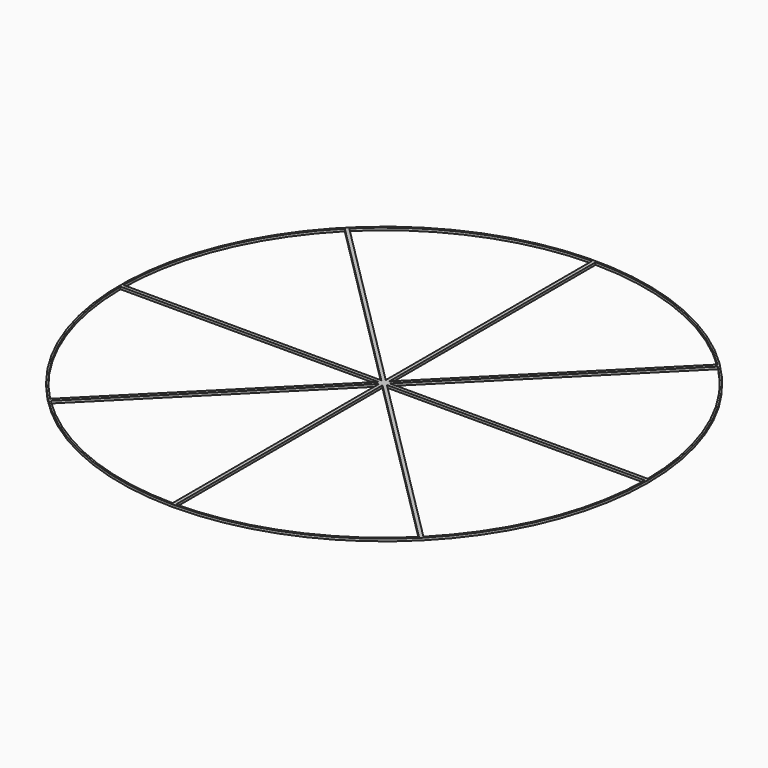
from build123d import *

# Parameters (mm, degrees)
F1_DEPTH = 0.2


with BuildPart() as f1:
    # F0 (on Top) → F1 (new body)
    with BuildSketch(Plane.XY):
        Polygon((-0.15, -0.0621320344), (-0.0621320344, -0.15), (0, -0.15), (0.0621320344, -0.15), (0.15, -0.0621320344), (0.15, 0), (0.15, 0.0621320344), (0.0621320344, 0.15), (0, 0.15), (-0.0621320344, 0.15), (-0.15, 0.0621320344), (-0.15, 0), align=None)
        Polygon((0, 0.2121320344), (-0.0621320344, 0.15), (0, 0.15), (0.0621320344, 0.15), align=None)
        Polygon((0.15, 0), (0.15, -0.0621320344), (0.2121320344, 0), (0.15, 0.0621320344), align=None)
        Polygon((0.0621320344, -0.15), (0.15, -0.15), (0.15, -0.0621320344), align=None)
        Polygon((0.0621320344, 0.15), (0.15, 0.0621320344), (0.15, 0.15), align=None)
        Polygon((0.15, 0.0621320344), (0.2121320344, 0), (0.3621320344, 0.15), (0.15, 0.15), align=None)
        Polygon((0, 0.2121320344), (0.0621320344, 0.15), (0.15, 0.15), (0.15, 0.3621320344), align=None)
        Polygon((0.15, -0.0621320344), (0.15, -0.15), (0.3621320344, -0.15), (0.2121320344, 0), align=None)
        with BuildLine():
            Line((0.3621320344, -0.15), (22.3494966386, -0.15))
            ThreePointArc((22.3494966386, -0.15), (22.3498741593, -0.0750004223), (22.35, 0))
            ThreePointArc((22.35, 0), (22.3498741593, 0.0750004223), (22.3494966386, 0.15))
            Line((22.3494966386, 0.15), (0.3621320344, 0.15))
            Line((0.3621320344, 0.15), (0.2121320344, 0))
            Line((0.2121320344, 0), (0.3621320344, -0.15))
        make_face()
        with BuildLine():
            Line((0.15, 0.15), (0.3621320344, 0.15))
            Line((0.3621320344, 0.15), (15.9095466465, 15.6974146121))
            ThreePointArc((15.9095466465, 15.6974146121), (15.8038365595, 15.8038365595), (15.6974146121, 15.9095466465))
            Line((15.6974146121, 15.9095466465), (0.15, 0.3621320344))
            Line((0.15, 0.3621320344), (0.15, 0.15))
        make_face()
        with BuildLine():
            ThreePointArc((0.15, 22.3494966386), (0, 22.35), (-0.15, 22.3494966386))
            Line((-0.15, 22.3494966386), (-0.15, 0.3621320344))
            Line((-0.15, 0.3621320344), (0, 0.2121320344))
            Line((0, 0.2121320344), (0.15, 0.3621320344))
            Line((0.15, 0.3621320344), (0.15, 22.3494966386))
        make_face()
        Polygon((0, -0.2121320344), (0.15, -0.3621320344), (0.15, -0.15), (0.0621320344, -0.15), align=None)
        with BuildLine():
            Line((0.15, -0.3621320344), (15.6974146121, -15.9095466465))
            ThreePointArc((15.6974146121, -15.9095466465), (15.8038365595, -15.8038365595), (15.9095466465, -15.6974146121))
            Line((15.9095466465, -15.6974146121), (0.3621320344, -0.15))
            Line((0.3621320344, -0.15), (0.15, -0.15))
            Line((0.15, -0.15), (0.15, -0.3621320344))
        make_face()
        Polygon((-0.0621320344, -0.15), (0, -0.2121320344), (0.0621320344, -0.15), (0, -0.15), align=None)
        Polygon((-0.15, -0.15), (-0.15, -0.3621320344), (0, -0.2121320344), (-0.0621320344, -0.15), align=None)
        Polygon((-0.15, -0.0621320344), (-0.15, -0.15), (-0.0621320344, -0.15), align=None)
        Polygon((-0.2121320344, 0), (-0.15, -0.0621320344), (-0.15, 0), (-0.15, 0.0621320344), align=None)
        Polygon((-0.15, 0.3621320344), (-0.15, 0.15), (-0.0621320344, 0.15), (0, 0.2121320344), align=None)
        Polygon((-0.15, 0.15), (-0.15, 0.0621320344), (-0.0621320344, 0.15), align=None)
        Polygon((-0.3621320344, 0.15), (-0.2121320344, 0), (-0.15, 0.0621320344), (-0.15, 0.15), align=None)
        with BuildLine():
            ThreePointArc((-15.6974146121, 15.9095466465), (-15.8038365595, 15.8038365595), (-15.9095466465, 15.6974146121))
            Line((-15.9095466465, 15.6974146121), (-0.3621320344, 0.15))
            Line((-0.3621320344, 0.15), (-0.15, 0.15))
            Line((-0.15, 0.15), (-0.15, 0.3621320344))
            Line((-0.15, 0.3621320344), (-15.6974146121, 15.9095466465))
        make_face()
        with BuildLine():
            ThreePointArc((-22.3494966386, 0.15), (-22.35, 0), (-22.3494966386, -0.15))
            Line((-22.3494966386, -0.15), (-0.3621320344, -0.15))
            Line((-0.3621320344, -0.15), (-0.2121320344, 0))
            Line((-0.2121320344, 0), (-0.3621320344, 0.15))
            Line((-0.3621320344, 0.15), (-22.3494966386, 0.15))
        make_face()
        Polygon((-0.3621320344, -0.15), (-0.15, -0.15), (-0.15, -0.0621320344), (-0.2121320344, 0), align=None)
        with BuildLine():
            ThreePointArc((-15.9095466465, -15.6974146121), (-15.8038365595, -15.8038365595), (-15.6974146121, -15.9095466465))
            Line((-15.6974146121, -15.9095466465), (-0.15, -0.3621320344))
            Line((-0.15, -0.3621320344), (-0.15, -0.15))
            Line((-0.15, -0.15), (-0.3621320344, -0.15))
            Line((-0.3621320344, -0.15), (-15.9095466465, -15.6974146121))
        make_face()
        with BuildLine():
            Line((-0.15, -0.3621320344), (-0.15, -22.3494966386))
            ThreePointArc((-0.15, -22.3494966386), (0, -22.35), (0.15, -22.3494966386))
            Line((0.15, -22.3494966386), (0.15, -0.3621320344))
            Line((0.15, -0.3621320344), (0, -0.2121320344))
            Line((0, -0.2121320344), (-0.15, -0.3621320344))
        make_face()
        with BuildLine():
            Line((-0.15, -22.3494966386), (-0.15, -22.4994999944))
            ThreePointArc((-0.15, -22.4994999944), (0, -22.5), (0.15, -22.4994999944))
            Line((0.15, -22.4994999944), (0.15, -22.3494966386))
            ThreePointArc((0.15, -22.3494966386), (0, -22.35), (-0.15, -22.3494966386))
        make_face()
        with BuildLine():
            ThreePointArc((0.15, -22.4994999944), (15.9628474903, -15.8567808839), (22.5, 0))
            ThreePointArc((22.5, 0), (-15.8567808839, 15.9628474903), (-0.15, -22.4994999944))
            Line((-0.15, -22.4994999944), (-0.15, -22.3494966386))
            ThreePointArc((-0.15, -22.3494966386), (-8.5529747134, -20.6487075516), (-15.6974146121, -15.9095466465))
            ThreePointArc((-15.6974146121, -15.9095466465), (-15.8038365595, -15.8038365595), (-15.9095466465, -15.6974146121))
            ThreePointArc((-15.9095466465, -15.6974146121), (-20.6487075516, -8.5529747134), (-22.3494966386, -0.15))
            ThreePointArc((-22.3494966386, -0.15), (-22.35, 0), (-22.3494966386, 0.15))
            ThreePointArc((-22.3494966386, 0.15), (-20.6487075516, 8.5529747134), (-15.9095466465, 15.6974146121))
            ThreePointArc((-15.9095466465, 15.6974146121), (-15.8038365595, 15.8038365595), (-15.6974146121, 15.9095466465))
            ThreePointArc((-15.6974146121, 15.9095466465), (-8.5529747134, 20.6487075516), (-0.15, 22.3494966386))
            ThreePointArc((-0.15, 22.3494966386), (0, 22.35), (0.15, 22.3494966386))
            ThreePointArc((0.15, 22.3494966386), (8.5529747134, 20.6487075516), (15.6974146121, 15.9095466465))
            ThreePointArc((15.6974146121, 15.9095466465), (15.8038365595, 15.8038365595), (15.9095466465, 15.6974146121))
            ThreePointArc((15.9095466465, 15.6974146121), (20.6487075516, 8.5529747134), (22.3494966386, 0.15))
            ThreePointArc((22.3494966386, 0.15), (22.3498741593, 0.0750004223), (22.35, 0))
            ThreePointArc((22.35, 0), (22.3498741593, -0.0750004223), (22.3494966386, -0.15))
            ThreePointArc((22.3494966386, -0.15), (20.6487075516, -8.5529747134), (15.9095466465, -15.6974146121))
            ThreePointArc((15.9095466465, -15.6974146121), (15.8038365595, -15.8038365595), (15.6974146121, -15.9095466465))
            ThreePointArc((15.6974146121, -15.9095466465), (8.5529747134, -20.6487075516), (0.15, -22.3494966386))
            Line((0.15, -22.3494966386), (0.15, -22.4994999944))
        make_face()
    extrude(amount=F1_DEPTH)


solid = f1.part
